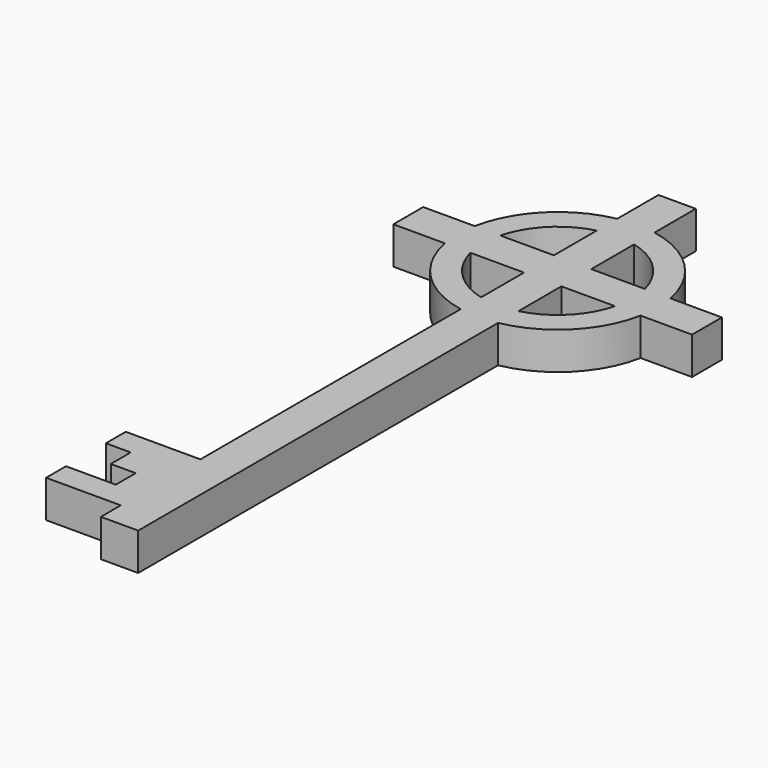
from build123d import *

# Parameters (mm, degrees)
F0_R     = 12.7
F0_R_2   = 9.525
F1_DEPTH = 4.7625
F2_W     = 38.1
F2_H     = 4.7625
F3_DEPTH = 4.7625
F4_W     = 4.7625
F4_H     = 88.9
F5_DEPTH = 4.7625
F7_DEPTH = 4.7625


with BuildPart() as f1:
    # F0 (on Top) → F1 (new body)
    with BuildSketch(Plane.XY):
        Circle(F0_R)
        Circle(F0_R_2, mode=Mode.SUBTRACT)
    extrude(amount=F1_DEPTH)

    # F2 (on face) → F3 (join)
    with BuildSketch(Plane.XY.offset(4.7625)):
        Rectangle(F2_W, F2_H)
    extrude(amount=-F3_DEPTH)

    # F4 (on face) → F5 (join)
    with BuildSketch(Plane.XY.offset(4.7625)):
        with Locations((0, -25.4)):
            Rectangle(F4_W, F4_H)
    extrude(amount=-F5_DEPTH)

    # F6 (on face) → F7 (join)
    with BuildSketch(Plane.XY.offset(4.7625)):
        Polygon((-2.38125, -66.675), (-2.38125, -53.975), (-11.90625, -53.975), (-11.90625, -57.15), (-8.73125, -57.15), (-8.73125, -60.325), (-5.55625, -60.325), (-5.55625, -63.5), (-11.90625, -63.5), (-11.90625, -66.675), align=None)
    extrude(amount=-F7_DEPTH)


solid = f1.part
